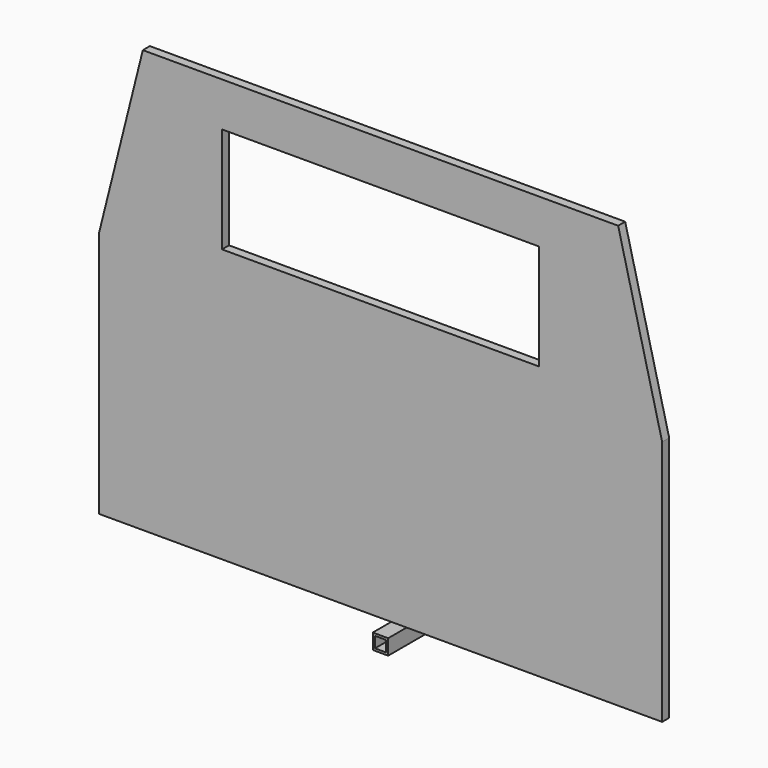
from build123d import *

# Parameters (mm, degrees)
F0_W     = 44.45
F0_H     = 44.45
F0_W_2   = 31.75
F0_H_2   = 31.75
F1_DEPTH = 152.4
F0_W_3   = 914.4
F0_H_3   = 304.8
F2_DEPTH = 25.4


with BuildPart() as f1:
    # F0 (on Front) → F1 (new body)
    with BuildSketch(Plane.XZ):
        with Locations((0, -66.675)):
            Rectangle(F0_W, F0_H)
        with Locations((0, -66.675)):
            Rectangle(F0_W_2, F0_H_2, mode=Mode.SUBTRACT)
    extrude(amount=-F1_DEPTH)


with BuildPart() as f2:
    # F0 (on Front) → F2 (new body)
    with BuildSketch(Plane.XZ):
        Polygon((-812.8, 0), (0, 0), (812.8, 0), (812.8, 711.2), (736.6, 1016), (736.6, 228.6), (-736.6, 228.6), (-736.6, 1016), (-812.8, 711.2), align=None)
        Polygon((-685.8, 1219.2), (-736.6, 1016), (-736.6, 228.6), (736.6, 228.6), (736.6, 1016), (685.8, 1219.2), align=None)
        with Locations((0, 939.8)):
            Rectangle(F0_W_3, F0_H_3, mode=Mode.SUBTRACT)
    extrude(amount=-F2_DEPTH)


solid = Compound([f1.part, f2.part])
